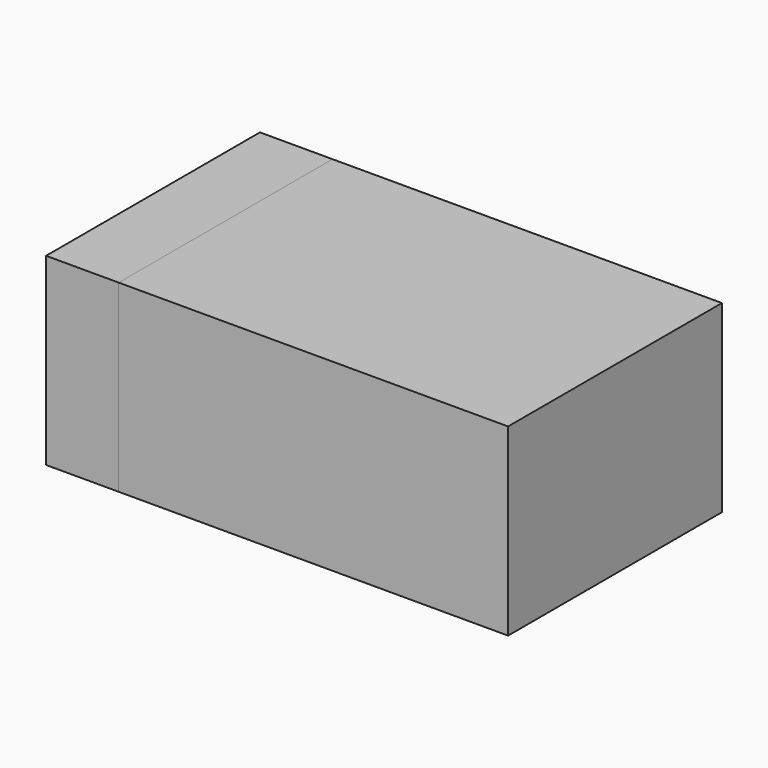
from build123d import *

# Parameters (mm, degrees)
SKETCH_W     = 0.74
SKETCH_H     = 0.508
PAD_DEPTH    = 0.35
SKETCH001_W  = 0.138
SKETCH001_H  = 0.508
PAD001_DEPTH = 0.35


with BuildPart() as body:
    # Sketch → Pad (new body)
    with BuildSketch(Plane.XY):
        Rectangle(SKETCH_W, SKETCH_H)
    extrude(amount=PAD_DEPTH)


with BuildPart() as body001:
    # Sketch001 → Pad001 (new body)
    with BuildSketch(Plane.XY):
        with Locations((0.439, 0)):
            Rectangle(SKETCH001_W, SKETCH001_H)
    extrude(amount=PAD001_DEPTH)


with BuildPart() as part_mirroring:
    # Part__Mirroring: instance of Body001
    add(body001.part.mirror(Plane(origin=(0, 0, 0), x_dir=(0, -1, 0), z_dir=(1, 0, 0))))


solid = Compound([body.part, part_mirroring.part])
